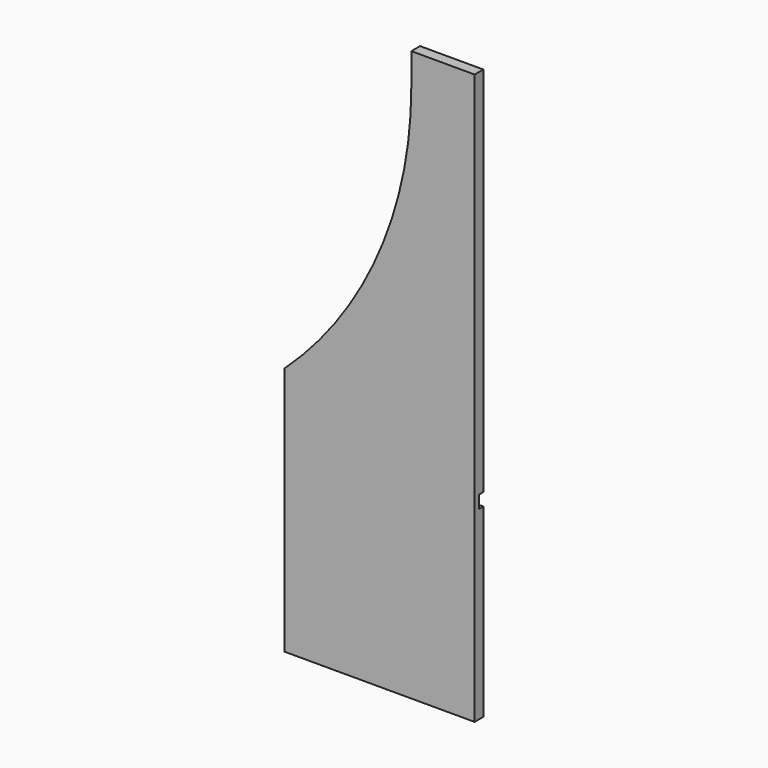
from build123d import *

# Parameters (mm, degrees)
F0_W     = 304.8
F0_H     = 297.18
F0_H_2   = 20.32
F1_DEPTH = 17.526
F2_DEPTH = 8.255


with BuildPart() as f1:
    # F0 (on Front) → F1 (new body)
    with BuildSketch(Plane.XZ):
        with Locations((-26.445295, -488.64002)):
            Rectangle(F0_W, F0_H)
        with Locations((-26.445295, -329.89002)):
            Rectangle(F0_W, F0_H_2)
        with BuildLine():
            Line((-178.845295, -299.41002), (-178.845295, -319.73002))
            Line((-178.845295, -319.73002), (125.954705, -319.73002))
            Line((125.954705, -319.73002), (125.954705, -299.41002))
            Line((125.954705, -299.41002), (125.954705, -278.324652))
            Line((125.954705, -278.324652), (125.954705, -258.004652))
            Line((125.954705, -258.004652), (125.954705, 277.16998))
            Line((125.954705, 277.16998), (24.354705, 277.16998))
            Line((24.354705, 277.16998), (24.354705, 226.36998))
            ThreePointArc((24.354705, 226.36998), (-28.678357, -26.576251), (-178.845295, -236.919284))
            Line((-178.845295, -236.919284), (-178.845295, -258.004652))
            Line((-178.845295, -258.004652), (-178.845295, -299.41002))
        make_face()
    extrude(amount=F1_DEPTH)

    # F0 (on Front) → F2 (cut)
    with BuildSketch(Plane.XZ):
        with Locations((-26.445295, -329.89002)):
            Rectangle(F0_W, F0_H_2)
    extrude(amount=F2_DEPTH, mode=Mode.SUBTRACT)


solid = f1.part
